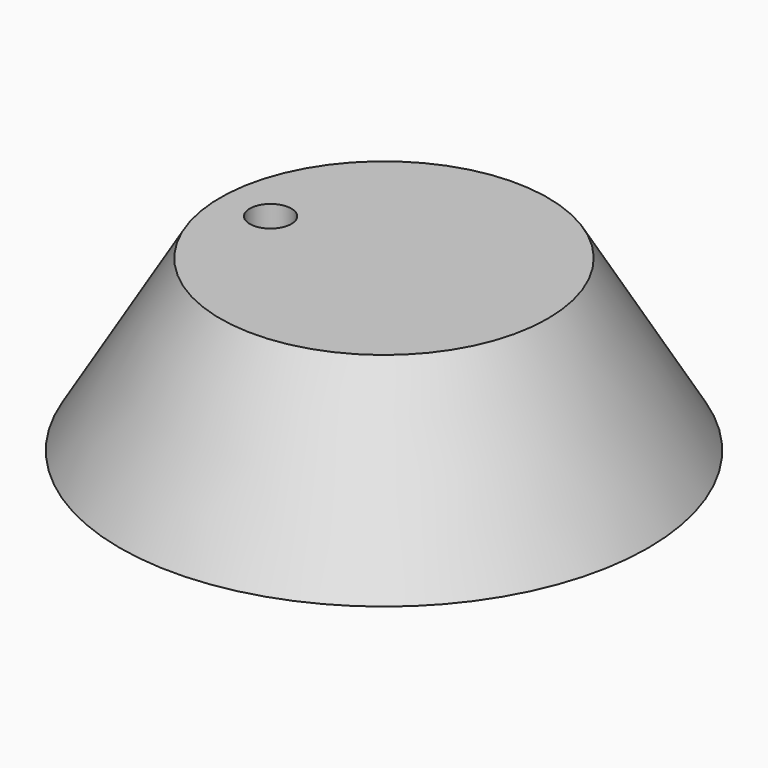
from build123d import *

# Parameters (mm, degrees)
F2_R     = 4
F3_DEPTH = 25


with BuildPart() as f1:
    # F0 (on Front) → F1 (revolve)
    with BuildSketch(Plane.XZ):
        Polygon((0, 32.523904), (0, 0), (50.743312, 0), (31.469889, 32.523904), align=None)
    revolve(axis=Axis((0, 0, 16.261952), (0, 0, -1)))

    # F2 (on face) → F3 (cut)
    with BuildSketch(Plane.XY.offset(32.523904)):
        with Locations((-21.791286, 0)):
            Circle(F2_R)
    extrude(amount=-F3_DEPTH, mode=Mode.SUBTRACT)


solid = f1.part
